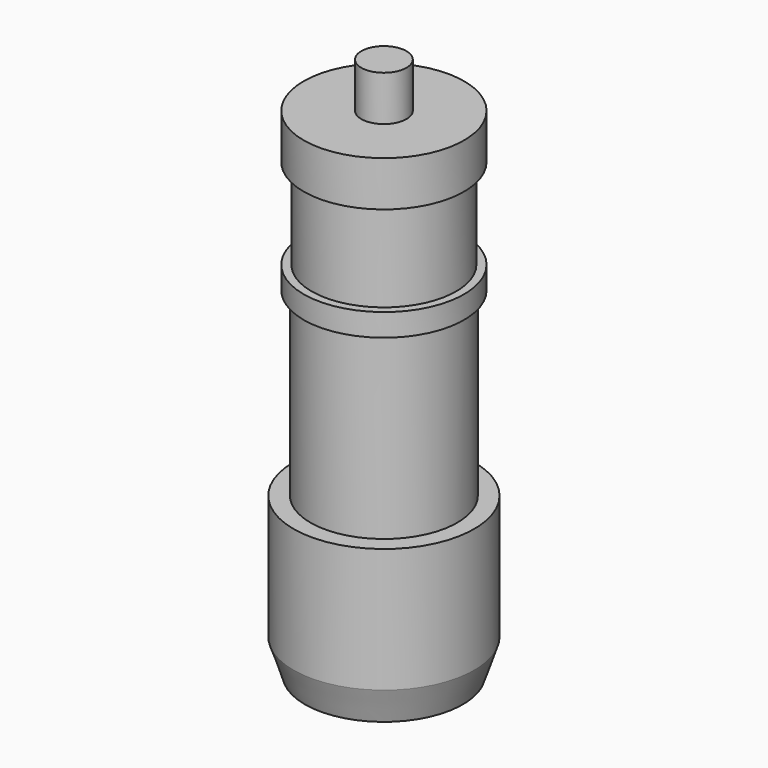
from build123d import *

# Parameters (mm, degrees)
CYLINDER020_R             = 3.2
CYLINDER020_DEPTH         = 22
CYLINDER021_R             = 3.55
CYLINDER021_DEPTH         = 2
CYLINDER022_R             = 3.55
CYLINDER022_DEPTH         = 1
CYLINDER023_R             = 3.25
CYLINDER023_DEPTH         = 8
CYLINDER024_R             = 4
CYLINDER024_DEPTH         = 5.5
CYLINDER025_R             = 1
CYLINDER025_DEPTH         = 2
FUSION055_PLACEMENT_ANGLE = 180


with BuildPart() as cylinder020:
    # Cylinder020 → Cylinder020 (new body)
    with BuildSketch(Plane.XY.offset(5)):
        Circle(CYLINDER020_R)
    extrude(amount=CYLINDER020_DEPTH)


with BuildPart() as cylinder021:
    # Cylinder021 → Cylinder021 (new body)
    with BuildSketch(Plane.XY.offset(5)):
        Circle(CYLINDER021_R)
    extrude(amount=CYLINDER021_DEPTH)


with BuildPart() as cylinder022:
    # Cylinder022 → Cylinder022 (new body)
    with BuildSketch(Plane.XY.offset(11)):
        Circle(CYLINDER022_R)
    extrude(amount=CYLINDER022_DEPTH)


with BuildPart() as cylinder023:
    # Cylinder023 → Cylinder023 (new body)
    with BuildSketch(Plane.XY.offset(12)):
        Circle(CYLINDER023_R)
    extrude(amount=CYLINDER023_DEPTH)


with BuildPart() as cylinder024:
    # Cylinder024 → Cylinder024 (new body)
    with BuildSketch(Plane.XY.offset(20)):
        Circle(CYLINDER024_R)
    extrude(amount=CYLINDER024_DEPTH)


with BuildPart() as fusion002:
    # Cone → Cone (revolve)
    with BuildSketch(Plane(origin=(0, 0, 25.5), x_dir=(1, 0, 0), z_dir=(0, -1, 0))):
        Polygon((0, 0), (4, 0), (3.5, 1.5), (0, 1.5), align=None)
    revolve(axis=Axis((0, 0, 25.5), (0, 0, 1)))

    # Fusion002: union Cylinder020, Cylinder021, Cylinder022, Cylinder023, Cylinder024
    add(cylinder020.part)
    add(cylinder021.part)
    add(cylinder022.part)
    add(cylinder023.part)
    add(cylinder024.part)


with BuildPart() as mic:
    # Cylinder025 → Cylinder025 (new body)
    with BuildSketch(Plane.XY.offset(3)):
        Circle(CYLINDER025_R)
    extrude(amount=CYLINDER025_DEPTH)

    # Fusion055: union Fusion002
    add(fusion002.part)


with BuildPart() as mic_1:
    # Fusion055 placement: moved
    add(mic.part.moved(Location((0, -212, -239.2))).rotate(Axis((0, -212, -239.2), (0, 1, 0)), FUSION055_PLACEMENT_ANGLE))


solid = mic_1.part
